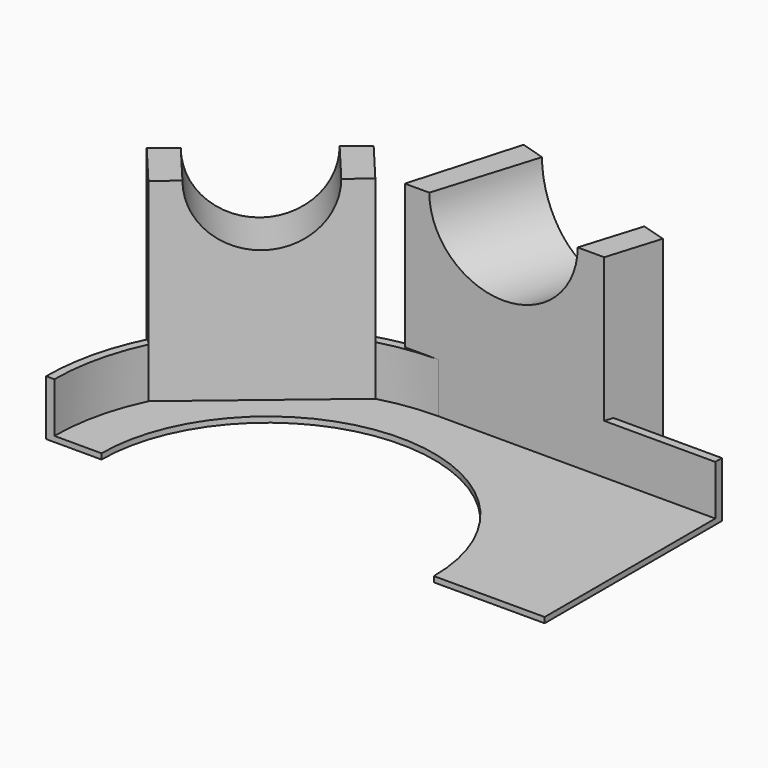
from build123d import *

# Parameters (mm, degrees)
PAD_DEPTH         = 10
POCKET_DEPTH      = 9
PAD001_DEPTH      = 35
PAD001_DEPTH_BACK = 1
SKETCH007_R       = 12.8
POCKET001_DEPTH   = 67.6190458501
SKETCH004_R       = 11.2
POCKET002_DEPTH   = 77.1582330742


with BuildPart() as part:
    # Sketch → Pad (new body)
    with BuildSketch(Plane.XY):
        with BuildLine():
            ThreePointArc((30, 0), (0, 30), (-30, 0))
            Line((-40, 0), (-30, 0))
            ThreePointArc((0, 40), (-28.2842712475, 28.2842712475), (-40, 0))
            Line((0, 40), (50, 40))
            Line((50, 40), (50, 0))
            Line((30, 0), (50, 0))
        make_face()
    extrude(amount=PAD_DEPTH)

    # Sketch002 → Pocket (cut)
    with BuildSketch(Plane.XY.offset(10)):
        with BuildLine():
            ThreePointArc((0, 38.5), (-27.2236110757, 27.2236110757), (-38.5, 0))
            Line((65, -6.5), (-38.5, 0))
            Line((65, 38.5), (65, -6.5))
            Line((0, 38.5), (65, 38.5))
        make_face()
    extrude(amount=-POCKET_DEPTH, mode=Mode.SUBTRACT)

    # Sketch003 → Pad001 (new body, two sides)
    with BuildSketch(Plane.XY.offset(1)) as pad001_sk:
        Polygon((-0.3768292053, 58.2286851346), (-6.0296340472, 38.5), (29.9497560282, 38.5), (32.8734730754, 48.0630475596), align=None)
        Polygon((-16.6802067695, 44.7702775725), (-41.1936289493, 24.2010740626), (-34.7657528524, 16.5406296314), (-10.2523306726, 37.1098331414), align=None)
    extrude(amount=PAD001_DEPTH)
    extrude(pad001_sk.sketch, amount=-PAD001_DEPTH_BACK)

    # Sketch007 → Pocket001 (cut, through all)
    with BuildSketch(Plane(origin=(16.248321935, 53.1458663471, 0), x_dir=(-0.956304756, 0.2923717047, 0), z_dir=(0.2923717047, 0.956304756, 0))):
        with Locations((0, 36)):
            Circle(SKETCH007_R)
    extrude(amount=-POCKET001_DEPTH, mode=Mode.SUBTRACT)

    # Sketch004 → Pocket002 (cut, through all)
    with BuildSketch(Plane(origin=(-28.9369178594, 34.4856758176, 0), x_dir=(-0.7660444431, -0.6427876097, 0), z_dir=(-0.6427876097, 0.7660444431, 0))):
        with Locations((0, 36)):
            Circle(SKETCH004_R)
    extrude(amount=-POCKET002_DEPTH, mode=Mode.SUBTRACT)


solid = part.part
